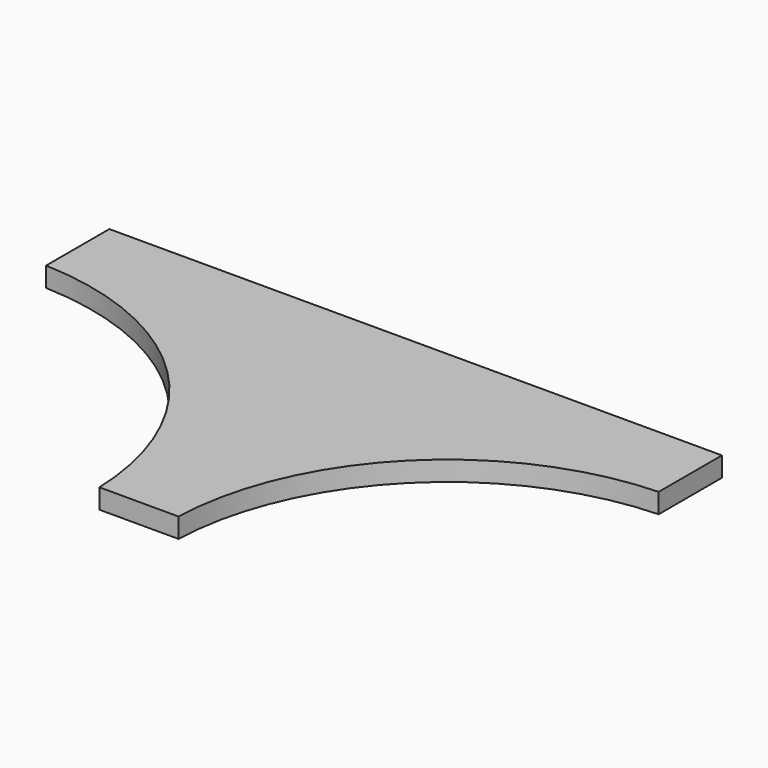
from build123d import *

# Parameters (mm, degrees)
F1_DEPTH = 6.35


with BuildPart() as f1:
    # F0 (on Top) → F1 (new body, symmetric)
    with BuildSketch(Plane.XY):
        with BuildLine():
            Line((0, 25.4), (0, 0))
            Line((0, 0), (0, -25.4))
            ThreePointArc((0, -25.4), (119.483134, -77.366866), (171.45, -196.85))
            Line((171.45, -196.85), (196.85, -196.85))
            Line((196.85, -196.85), (222.25, -196.85))
            ThreePointArc((222.25, -196.85), (274.216866, -77.366866), (393.7, -25.4))
            Line((393.7, -25.4), (393.7, 0))
            Line((393.7, 0), (393.7, 25.4))
            Line((393.7, 25.4), (0, 25.4))
        make_face()
    extrude(amount=F1_DEPTH, both=True)


solid = f1.part
